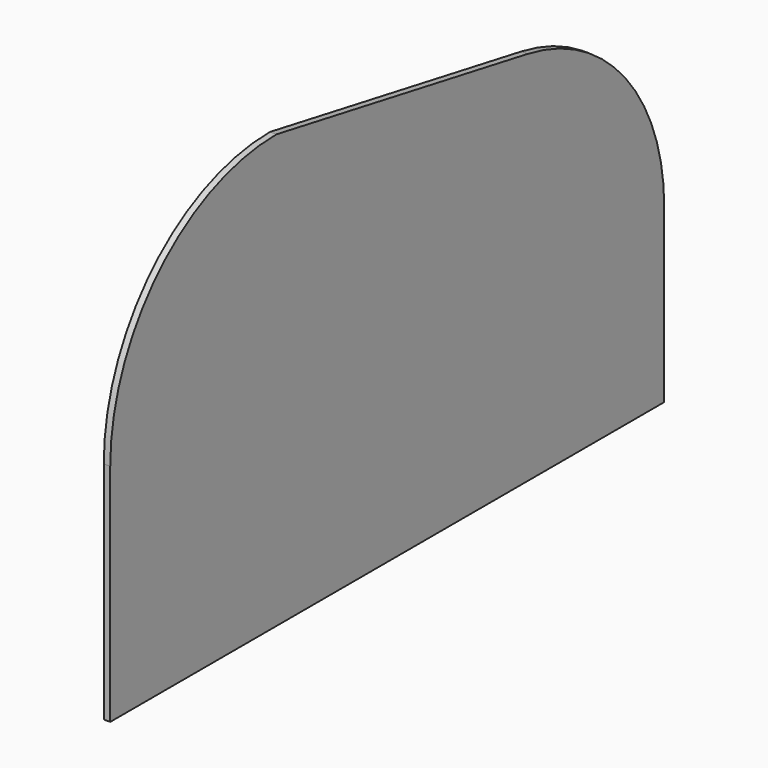
from build123d import *

# Parameters (mm, degrees)
F1_DEPTH = 19.05


with BuildPart() as f1:
    # F0 (on Right) → F1 (new body)
    with BuildSketch(Plane.YZ):
        with BuildLine():
            Line((0, 660.4), (0, 0))
            Line((0, 0), (2032, 0))
            Line((2032, 0), (2032, 503.370324))
            ThreePointArc((2032, 503.370324), (1890.268319, 894.153379), (1530.978359, 1103.222722))
            Line((1530.978359, 1103.222722), (609.6, 1270))
            ThreePointArc((609.6, 1270), (178.547706, 1091.452294), (0, 660.4))
        make_face()
    extrude(amount=F1_DEPTH)


solid = f1.part
